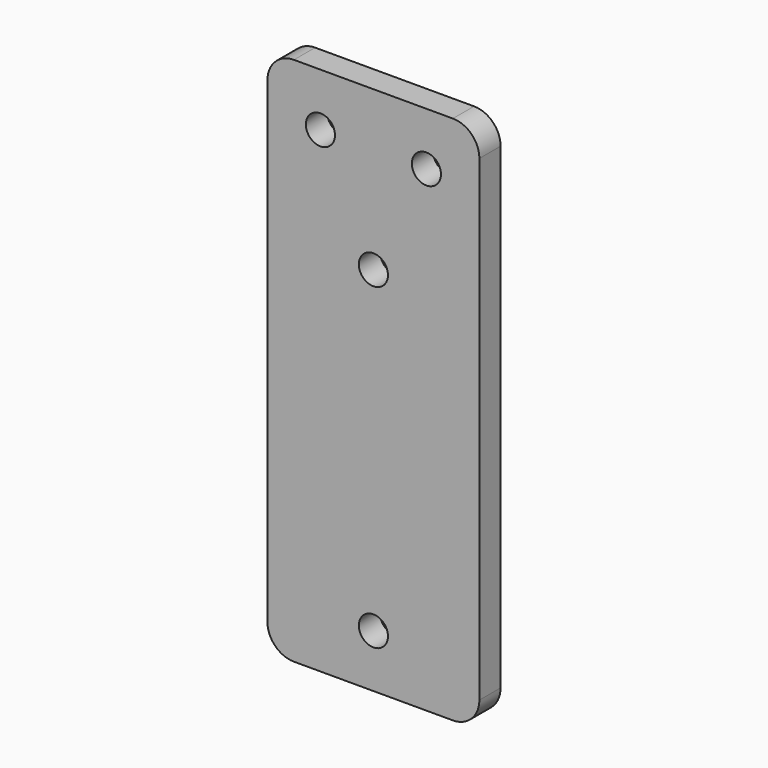
from build123d import *

# Parameters (mm, degrees)
F0_W     = 40
F0_H     = 100
F1_DEPTH = 5
F2_R     = 5
F3_R     = 2.75
F4_DEPTH = 5.001


with BuildPart() as f1:
    # F0 (on Front) → F1 (new body)
    with BuildSketch(Plane.XZ):
        with Locations((20, 50)):
            Rectangle(F0_W, F0_H)
    extrude(amount=F1_DEPTH)

    # F2
    f2_edges = [f1.edges().sort_by_distance(p)[0] for p in [
        (0, -2.5, 100),
        (40, -2.5, 100),
        (40, -2.5, 0),
        (0, -2.5, 0),
    ]]
    fillet(f2_edges, radius=F2_R)


with BuildPart() as f4:
    # F3 (on Front) → F4 (new body, through all)
    with BuildSketch(Plane.XZ):
        with Locations((20, 10)):
            Circle(F3_R)
    extrude(amount=F4_DEPTH)


with BuildPart() as f1_1:
    add(f1.part)

    # F5: cut F4
    add(f4.part, mode=Mode.SUBTRACT)


with BuildPart() as f6_1:
    # F6: copy of F4
    add(f4.part.moved(Location((0, 0, 60))))


with BuildPart() as f7_1:
    # F7: copy of F6_1
    add(f6_1.part.moved(Location((10, 0, 20))))


with BuildPart() as f8_1:
    # F8: copy of F6_1
    add(f6_1.part.moved(Location((-10, 0, 20))))


with BuildPart() as f1_2:
    add(f1_1.part)

    # F9: cut F8_1, F7_1, F6_1, F4
    add(f8_1.part, mode=Mode.SUBTRACT)
    add(f7_1.part, mode=Mode.SUBTRACT)
    add(f6_1.part, mode=Mode.SUBTRACT)
    add(f4.part, mode=Mode.SUBTRACT)


solid = f1_2.part
